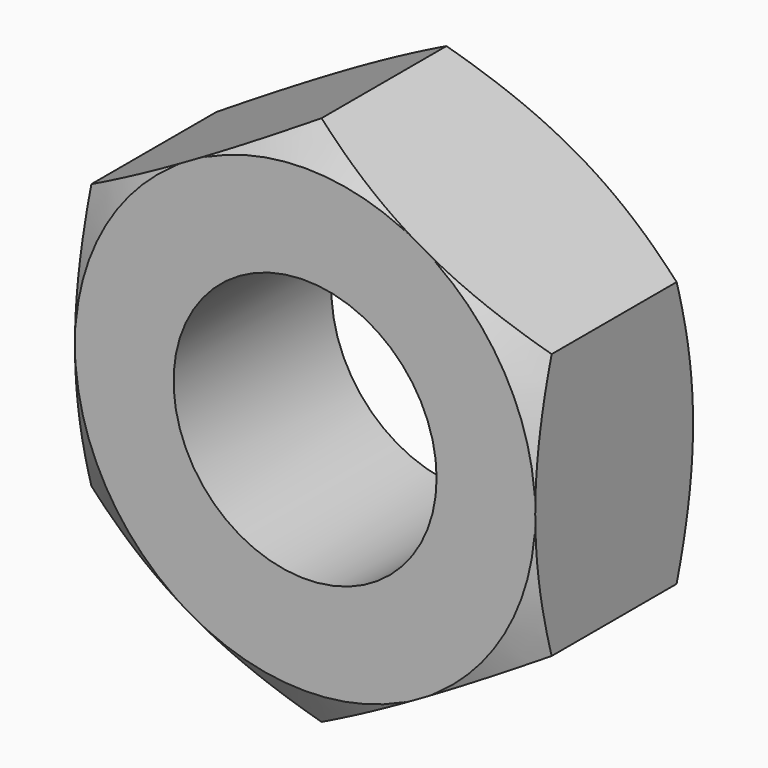
from build123d import *

# Parameters (mm, degrees)
F0_R     = 4
F1_DEPTH = 6


with BuildPart() as f1:
    # F0 (on Front) → F1 (new body)
    with BuildSketch(Plane.XZ):
        Polygon((7, -4.041452), (7, 4.041452), (0, 8.082904), (-7, 4.041452), (-7, -4.041452), (0, -8.082904), align=None)
        Circle(F0_R, mode=Mode.SUBTRACT)
    extrude(amount=F1_DEPTH)

    # F2 (on Top) → F3 (revolve, cut)
    with BuildSketch(Plane.XY):
        Polygon((10.083601, -1.780318), (10.083601, 0), (7, 0), align=None)
        Polygon((10.083601, -4.219682), (7, -6), (10.083601, -6), align=None)
    revolve(axis=Axis((0, -3, 0), (0, -1, 0)), mode=Mode.SUBTRACT)


solid = f1.part
